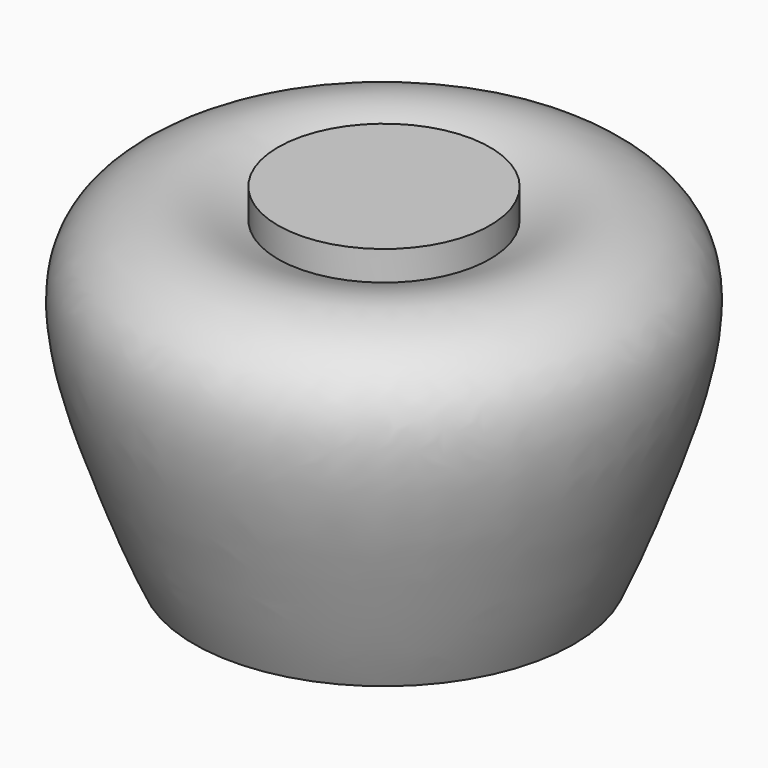
from build123d import *


with BuildPart() as f1:
    # F0 (on Front) → F1 (revolve)
    with BuildSketch(Plane.XZ):
        with BuildLine():
            Line((-5.5, 0), (0, 0))
            Line((0, 0), (0, 9.8786614392))
            Line((0, 9.8786614392), (-3.0685082411, 9.8786614392))
            Line((-3.0685082411, 9.8786614392), (-3.0685082411, 9.022230118))
            add(Edge.make_bspline(
                [(-5.5, 0), (-5.9187966667, 0.9045281484), (-6.6481854523, 2.801323041), (-8.4927653129, 8.2006187526), (-5.2565519039, 9.9526145589), (-3.9457382284, 9.4124062073), (-3.0685082411, 9.022230118)],
                knots=[0, 0, 0, 0, 0.2478810215, 0.5604437049, 0.7873991143, 1, 1, 1, 1], degree=3))
        make_face()
    revolve(axis=Axis((0, 0, 9.2518277842), (0, 0, 1)))


solid = f1.part
